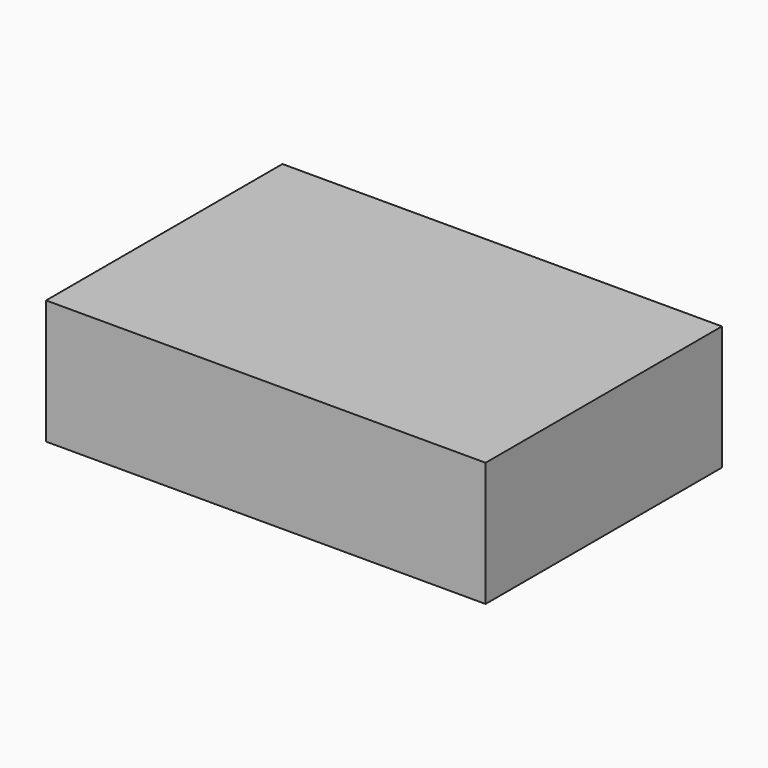
from build123d import *

# Parameters (mm, degrees)
SKETCH_W  = 60.09853
SKETCH_H  = 40.394093
PAD_DEPTH = 17


with BuildPart() as part:
    # Sketch → Pad (new body)
    with BuildSketch(Plane.XY):
        with Locations((30.049265, 20.197046)):
            Rectangle(SKETCH_W, SKETCH_H)
    extrude(amount=PAD_DEPTH)


solid = part.part
